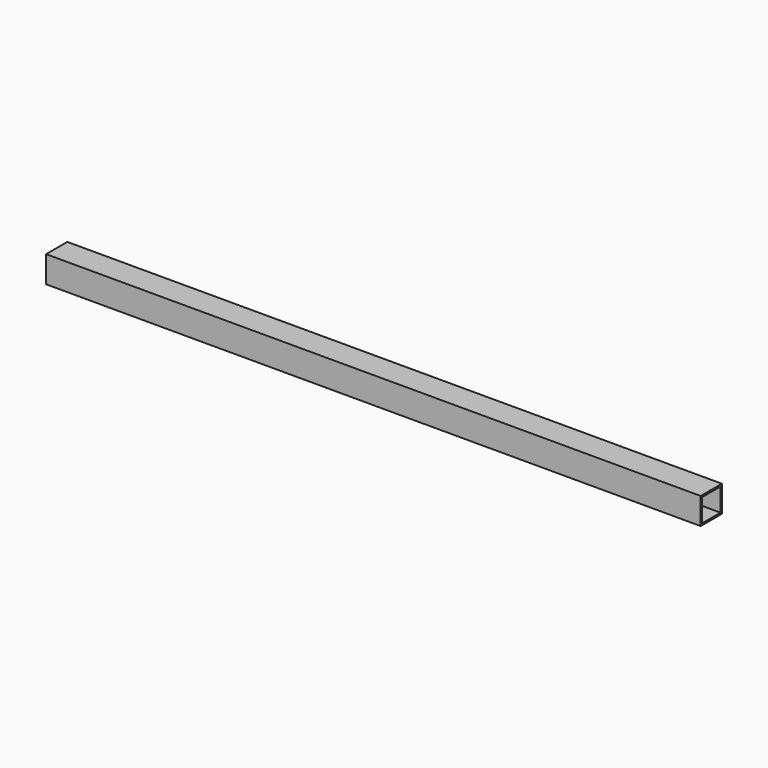
from build123d import *

# Parameters (mm, degrees)
F0_W     = 19.05
F0_H     = 19.05
F1_DEPTH = 469.9
F2_W     = 16.51
F2_H     = 16.51
F3_DEPTH = 469.9


with BuildPart() as f1:
    # F0 (on Right) → F1 (new body)
    with BuildSketch(Plane.YZ):
        with Locations((9.525, 9.525)):
            Rectangle(F0_W, F0_H)
    extrude(amount=F1_DEPTH)

    # F2 (on face) → F3 (cut)
    with BuildSketch(Plane(origin=(0, 0, 0), x_dir=(0, -1, 0), z_dir=(-1, 0, 0))):
        with Locations((-9.525, 9.525)):
            Rectangle(F2_W, F2_H)
    extrude(amount=-F3_DEPTH, mode=Mode.SUBTRACT)


solid = f1.part
